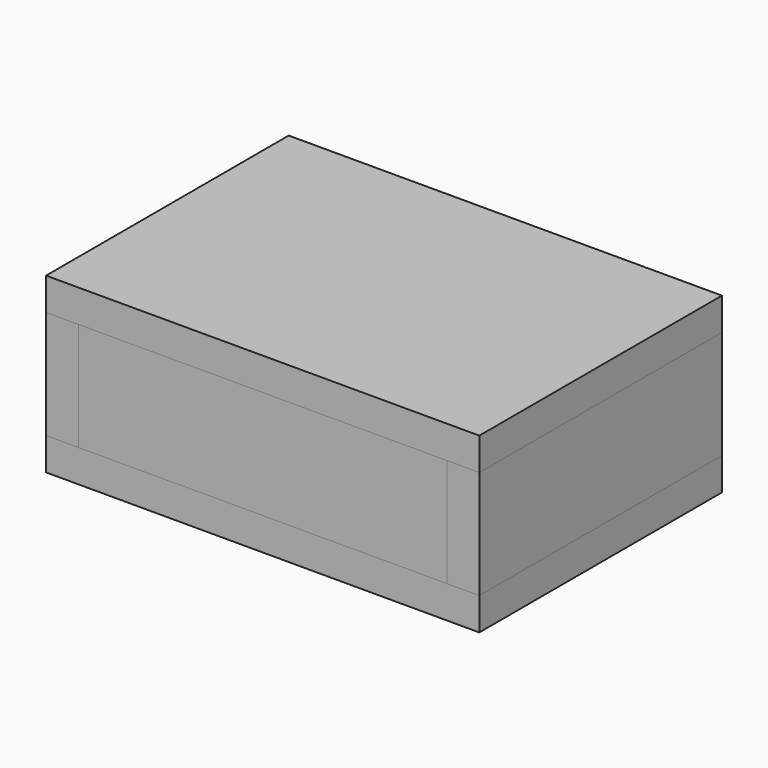
from build123d import *

# Parameters (mm, degrees)
F0_W     = 254
F0_H     = 177.8
F1_DEPTH = 19.05
F3_DEPTH = 63.5
F2_W     = 215.9
F2_H     = 19.05
F4_DEPTH = 63.5
F5_W     = 19.05
F5_H     = 177.8
F6_DEPTH = 19.05


with BuildPart() as f1:
    # F0 (on Top) → F1 (new body)
    with BuildSketch(Plane.XY):
        with Locations((127, 88.9)):
            Rectangle(F0_W, F0_H)
    extrude(amount=F1_DEPTH)


with BuildPart() as f3:
    # F2 (on face) → F3 (new body)
    with BuildSketch(Plane.XY.offset(19.05)):
        Polygon((19.05, 177.8), (0, 177.8), (0, 0), (19.05, 0), (19.05, 19.05), (19.05, 158.75), align=None)
        Polygon((254, 177.8), (234.95, 177.8), (234.95, 158.75), (234.95, 19.05), (234.95, 0), (254, 0), align=None)
    extrude(amount=F3_DEPTH)


with BuildPart() as f4:
    # F2 (on face) → F4 (new body)
    with BuildSketch(Plane.XY.offset(19.05)):
        with Locations((127, 9.525)):
            Rectangle(F2_W, F2_H)
        with Locations((127, 168.275)):
            Rectangle(F2_W, F2_H)
    extrude(amount=F4_DEPTH)


with BuildPart() as f6:
    # F5 (on face) → F6 (new body)
    with BuildSketch(Plane.XY.offset(82.55)):
        with Locations((9.525, 88.9)):
            Rectangle(F5_W, F5_H)
        Polygon((19.05, 177.8), (19.05, 0), (234.95, 0), (254, 0), (254, 177.8), (234.95, 177.8), align=None)
    extrude(amount=F6_DEPTH)


solid = Compound([f1.part, f3.part, f4.part, f6.part])
